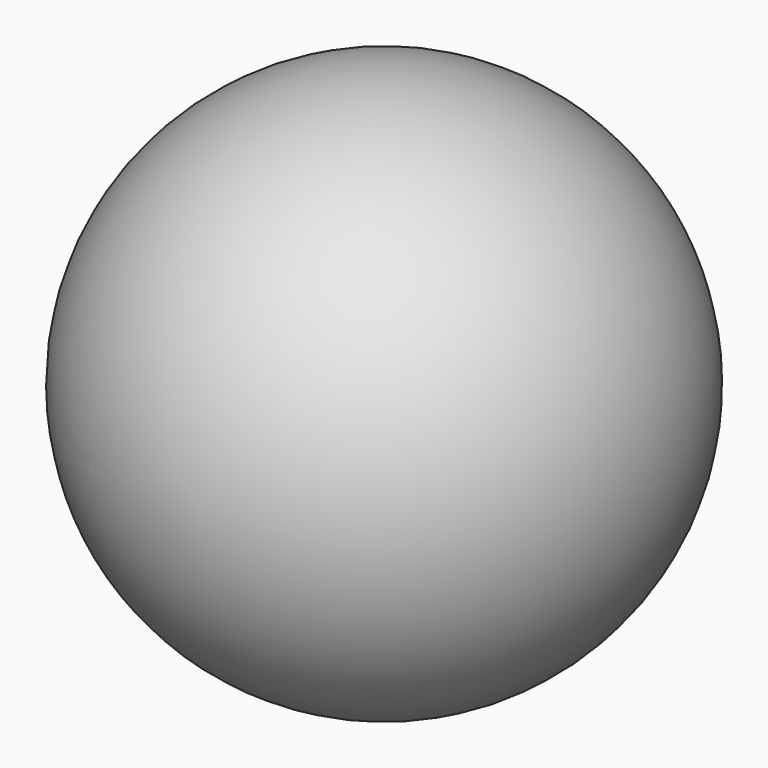
from build123d import *


with BuildPart() as f1:
    # F0 (on Top) → F1 (revolve)
    with BuildSketch(Plane.XY):
        with BuildLine():
            Line((0, 0), (0, 50.8))
            ThreePointArc((0, 50.8), (-50.8, 0), (0, -50.8))
            Line((0, -50.8), (0, 0))
        make_face()
    revolve(axis=Axis((0, 25.4, 0), (0, 1, 0)))


solid = f1.part
